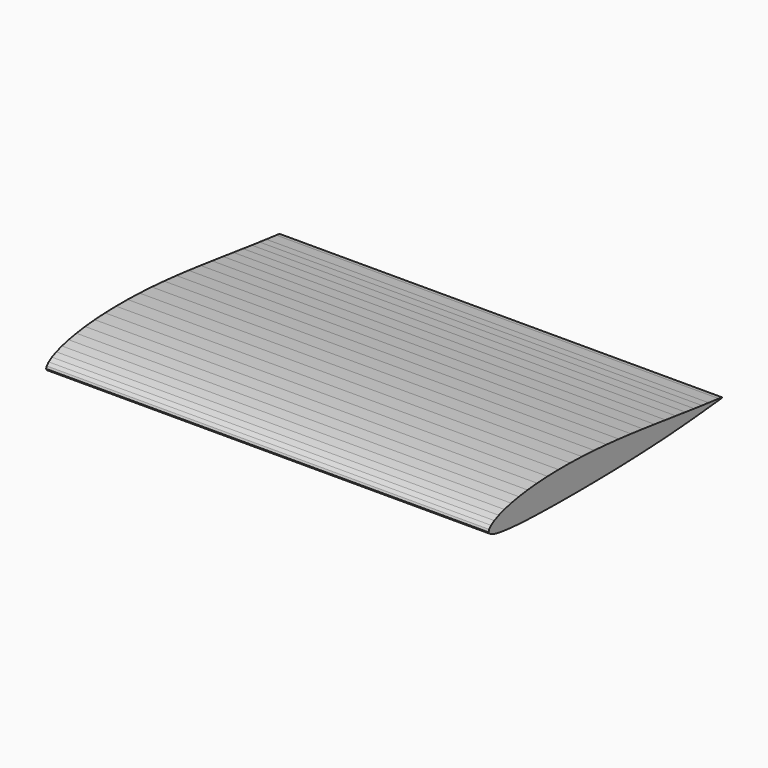
from build123d import *

# Parameters (mm, degrees)
F1_DEPTH = 150


with BuildPart() as f1:
    # F0 (on Right) → F1 (new body)
    with BuildSketch(Plane.YZ):
        Polygon((49.401502, -1.812943), (49.401429, -1.587792), (48.049564, -1.438415), (43.798746, -0.95), (40.948746, -0.609), (37.654746, -0.202), (33.954746, 0.266), (29.886746, 0.788), (25.497746, 1.356), (20.834746, 1.955), (15.948746, 2.564), (10.893746, 3.154), (5.723746, 3.699), (0.497746, 4.175), (-4.728254, 4.551), (-9.898254, 4.816), (-14.953254, 4.96), (-19.839254, 4.96), (-24.502254, 4.848), (-28.891254, 4.601), (-32.959254, 4.218), (-36.659254, 3.721), (-39.953254, 3.12), (-42.803254, 2.414), (-45.179254, 1.637), (-47.055254, 0.814), (-48.409254, -0.053), (-49.228254, -0.919), (-49.502254, -1.683), (-49.228254, -2.168), (-48.409254, -2.696), (-47.055254, -3.173), (-45.179254, -3.568), (-42.803254, -3.908), (-39.953254, -4.2), (-36.659254, -4.439), (-32.959254, -4.63), (-28.891254, -4.773), (-24.502254, -4.871), (-19.839254, -4.932), (-14.953254, -4.96), (-9.898254, -4.953), (-4.728254, -4.913), (0.497746, -4.84), (5.723746, -4.725), (10.893746, -4.568), (15.948746, -4.372), (20.834746, -4.137), (25.497746, -3.869), (29.886746, -3.576), (33.954746, -3.265), (37.654746, -2.951), (40.948746, -2.647), (43.798746, -2.366), (46.174746, -2.125), (48.046751, -1.944415), align=None)
    extrude(amount=F1_DEPTH)


solid = f1.part
